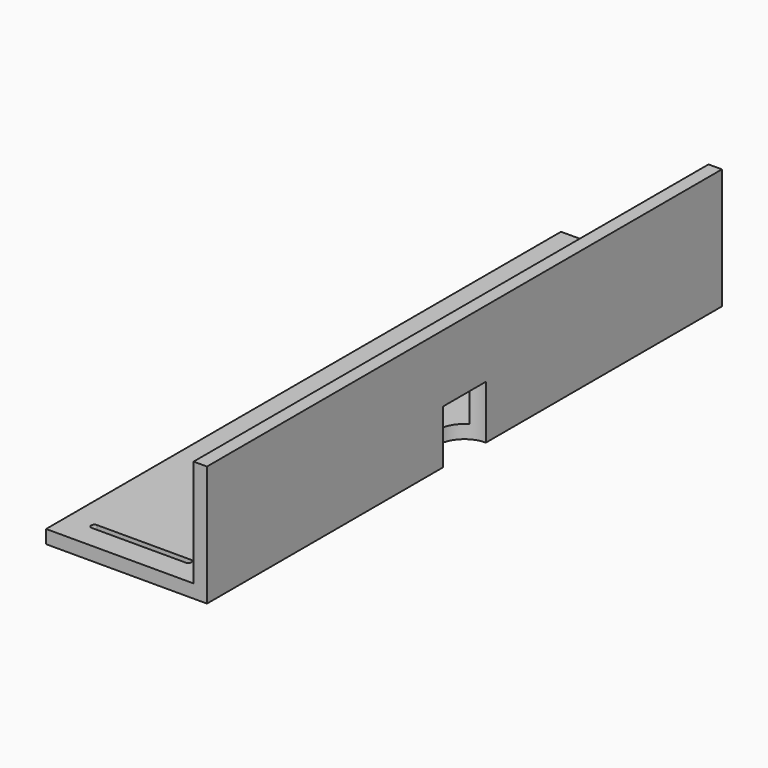
from build123d import *

# Parameters (mm, degrees)
F0_W     = 152.4
F0_H     = 609.6
F1_DEPTH = 12.7
F2_W     = 12.7
F2_H     = 609.6
F3_DEPTH = 101.6
F5_DEPTH = 25
F6_R     = 25.4
F7_DEPTH = 50.8


with BuildPart() as f1:
    # F0 (on Top) → F1 (new body)
    with BuildSketch(Plane.XY):
        with Locations((-76.2, 0)):
            Rectangle(F0_W, F0_H)
    extrude(amount=F1_DEPTH)

    # F2 (on face) → F3 (join)
    with BuildSketch(Plane.XY.offset(12.7)):
        with Locations((-6.35, 0)):
            Rectangle(F2_W, F2_H)
    extrude(amount=F3_DEPTH)

    # F4 (on face) → F5 (cut)
    with BuildSketch(Plane.XY.offset(12.7)):
        with BuildLine():
            Line((-38.1, 282.4), (-127, 282.4))
            ThreePointArc((-127, 282.4), (-130, 279.4), (-127, 276.4))
            Line((-127, 276.4), (-38.1, 276.4))
            ThreePointArc((-38.1, 276.4), (-35.1, 279.4), (-38.1, 282.4))
        make_face()
        with BuildLine():
            Line((-38.1, -276.4), (-127, -276.4))
            ThreePointArc((-127, -276.4), (-130, -279.4), (-127, -282.4))
            Line((-127, -282.4), (-38.1, -282.4))
            ThreePointArc((-38.1, -282.4), (-35.1, -279.4), (-38.1, -276.4))
        make_face()
    extrude(amount=-F5_DEPTH, mode=Mode.SUBTRACT)

    # F6 (on face) → F7 (cut)
    with BuildSketch(Plane(origin=(0, 0, 0), x_dir=(1, 0, 0), z_dir=(0, 0, -1))):
        Circle(F6_R)
    extrude(amount=-F7_DEPTH, mode=Mode.SUBTRACT)


solid = f1.part
